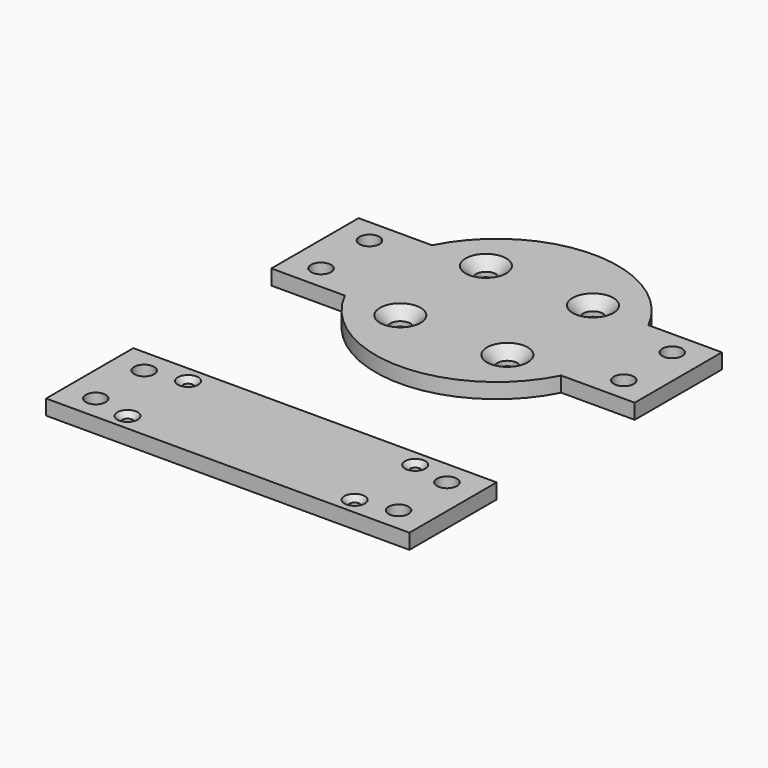
from build123d import *

# Parameters (mm, degrees)
F1_DEPTH       = 5
F3_D           = 6.6
F3_CSINK_D     = 13.44
F3_CSINK_ANGLE = 90
F5_D           = 6.6
F6_W           = 120
F6_H           = 36
F7_DEPTH       = 5
F9_D           = 3.4
F9_CSINK_D     = 6.72
F9_CSINK_ANGLE = 90
F11_D          = 6.6


with BuildPart() as f1:
    # F0 (on Top) → F1 (new body)
    with BuildSketch(Plane.XY):
        with BuildLine():
            Line((-60, 18), (-60, 0))
            Line((-60, 0), (-60, -18))
            Line((-60, -18), (-35.721142199, -18))
            ThreePointArc((-35.721142199, -18), (0, -40), (35.721142199, -18))
            Line((35.721142199, -18), (60, -18))
            Line((60, -18), (60, 0))
            Line((60, 0), (60, 18))
            Line((60, 18), (35.721142199, 18))
            ThreePointArc((35.721142199, 18), (0, 40), (-35.721142199, 18))
            Line((-35.721142199, 18), (-60, 18))
        make_face()
    extrude(amount=F1_DEPTH)

    # F3 (through all)
    with Locations(Plane.XY.offset(5)):
        with Locations((-17.6776695297, 17.6776695297), (17.6776695297, 17.6776695297), (17.6776695297, -17.6776695297), (-17.6776695297, -17.6776695297)):
            CounterSinkHole(F3_D / 2, F3_CSINK_D / 2, counter_sink_angle=F3_CSINK_ANGLE)

    # F5 (through all)
    with Locations(Plane.XY.offset(5)):
        with Locations((-50, 10), (-50, -10), (50, -10), (50, 10)):
            Hole(F5_D / 2)


with BuildPart() as f7:
    # F6 (on Top) → F7 (new body)
    with BuildSketch(Plane.XY):
        with Locations((0, -93)):
            Rectangle(F6_W, F6_H)
    extrude(amount=F7_DEPTH)

    # F9 (through all)
    with Locations(Plane.XY.offset(5)):
        with Locations((-37.5, -80.5), (37.5, -80.5), (37.5, -105.5), (-37.5, -105.5)):
            CounterSinkHole(F9_D / 2, F9_CSINK_D / 2, counter_sink_angle=F9_CSINK_ANGLE)

    # F11 (through all)
    with Locations(Plane.XY.offset(5)):
        with Locations((-50, -83), (-50, -103), (50, -83), (50, -103)):
            Hole(F11_D / 2)


solid = Compound([f1.part, f7.part])
